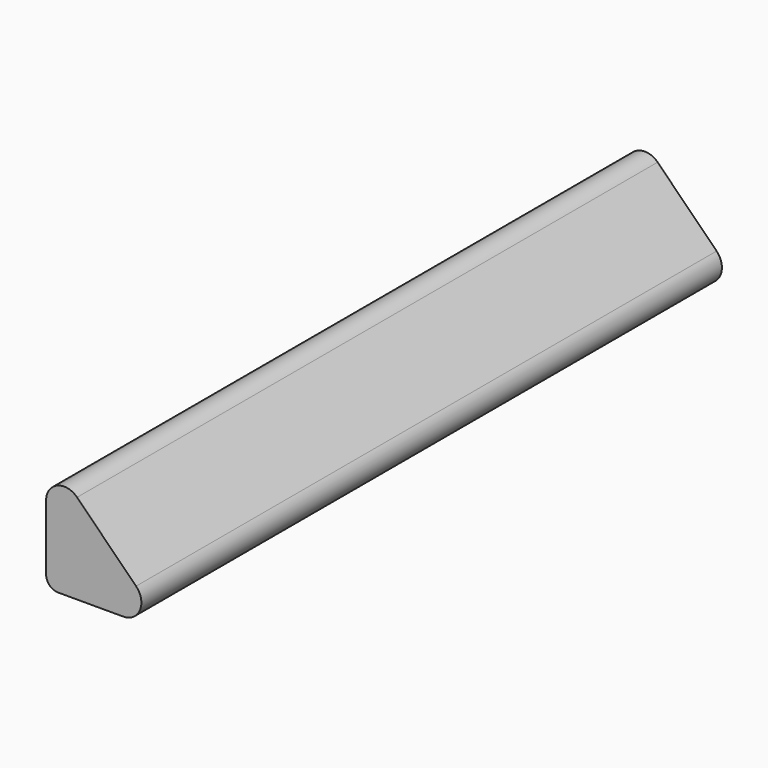
from build123d import *

# Parameters (mm, degrees)
F1_DEPTH = 152.4
F2_R     = 3.81
F3_R     = 2.54


with BuildPart() as f1:
    # F0 (on Front) → F1 (new body)
    with BuildSketch(Plane.XZ):
        Polygon((0, 25.4), (0, 0), (25.4, 0), align=None)
    extrude(amount=F1_DEPTH)

    # F2
    f2_edges = [f1.edges().sort_by_distance(p)[0] for p in [
        (0, -76.2, 25.4),
        (25.4, -76.2, 0),
    ]]
    fillet(f2_edges, radius=F2_R)

    # F3
    f3_edges = [f1.edges().sort_by_distance(p)[0] for p in [
        (0, -76.2, 0),
    ]]
    fillet(f3_edges, radius=F3_R)


solid = f1.part
